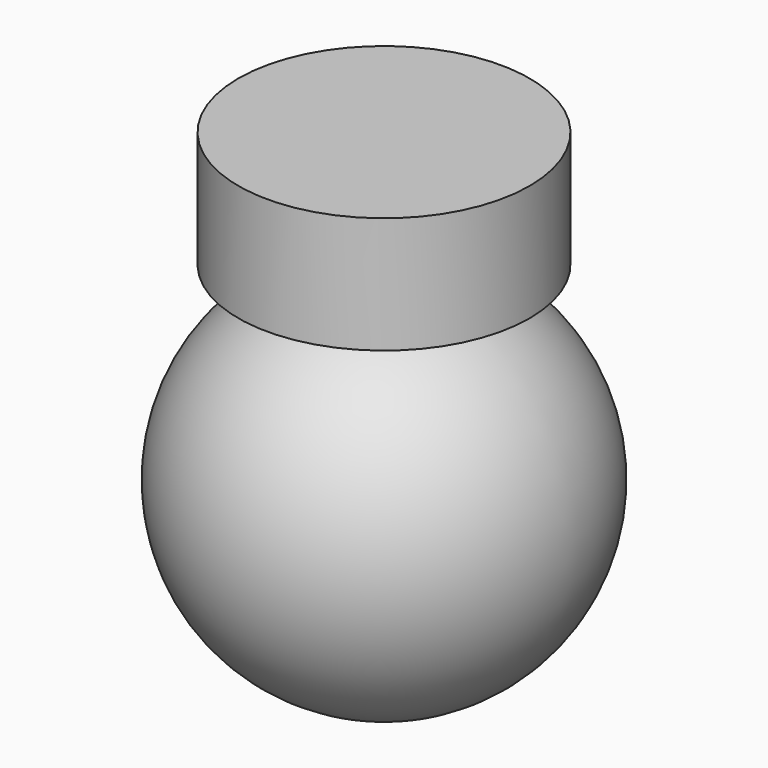
from build123d import *

# Parameters (mm, degrees)
F0_W = 5
F0_H = 4


with BuildPart() as f1:
    # F0 (on Front) → F1 (revolve)
    with BuildSketch(Plane.XZ):
        with BuildLine():
            Line((0, 6.5), (0, -6.5))
            ThreePointArc((0, -6.5), (6.5, 0), (0, 6.5))
        make_face()
        with Locations((2.5, 8.5)):
            Rectangle(F0_W, F0_H)
    revolve(axis=Axis((0, 0, 0), (0, 0, -1)))


solid = f1.part
